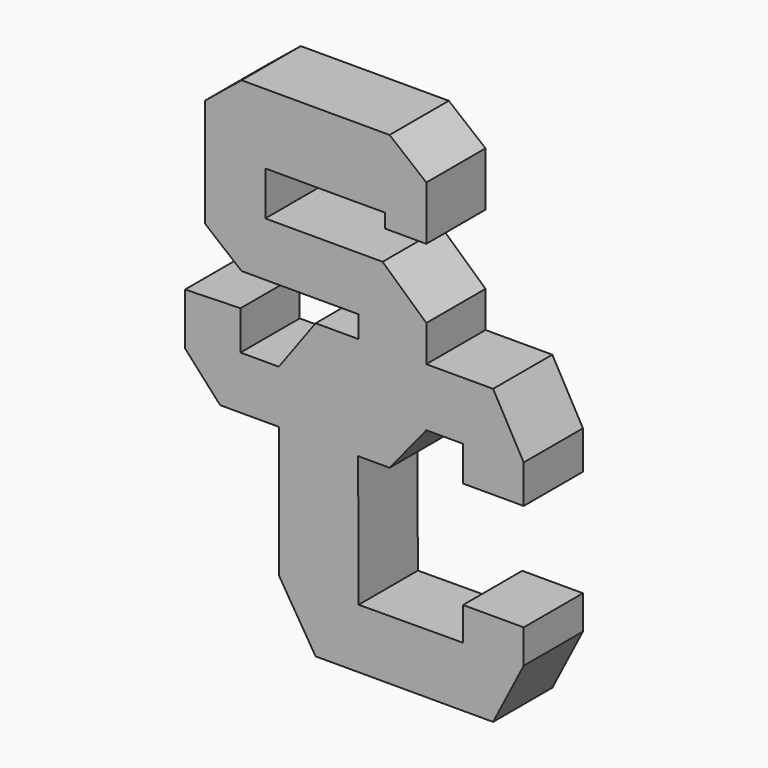
from build123d import *

# Parameters (mm, degrees)
F1_DEPTH = 25


with BuildPart() as f1:
    # F0 (on Front) → F1 (new body)
    with BuildSketch(Plane.XZ):
        Polygon((25, 54.390011), (-25, 54.390011), (-37.401415, 44.280367), (-37.401415, 7.760552), (-25, -2.349091), (14.553074, -2.349091), (14.553074, -9.739744), (37.401415, -9.739744), (37.401415, 2.495785), (22.646608, 15.901208), (-16.990989, 15.901208), (-16.990989, 30.78134), (23.416273, 30.78134), (23.416273, 26.035091), (37.401415, 26.035091), (37.401415, 44.280367), align=None)
        Polygon((37.401415, -9.739744), (14.553074, -9.739744), (14.553074, -26.700841), (-12.420272, -26.700841), (-25.357073, -26.700841), (-25.357073, -13.520215), (-44.085521, -14.033324), (-44.085521, -31.581496), (-32.246049, -44.583419), (-12.420272, -44.583419), (14.358093, -44.583419), (25, -44.583419), (37.401415, -29.370707), align=None)
        Polygon((14.553074, -26.700841), (14.553074, -9.739744), (0, -9.739744), (-12.420272, -26.700841), align=None)
        Polygon((59.962764, -9.739744), (37.401415, -9.739744), (37.401415, -29.370707), (49.803725, -29.370707), (49.803725, -41.213728), (70.303194, -41.213728), (70.303194, -28.267196), align=None)
        Polygon((14.553074, -88.711776), (14.358093, -44.583419), (-12.420272, -44.583419), (-12.420272, -88.711776), (0, -108.790196), (59.962764, -108.790196), (70.303194, -88.711776), (70.303194, -77.314541), (49.803725, -77.314541), (49.803725, -88.556021), align=None)
    extrude(amount=F1_DEPTH)


solid = f1.part
